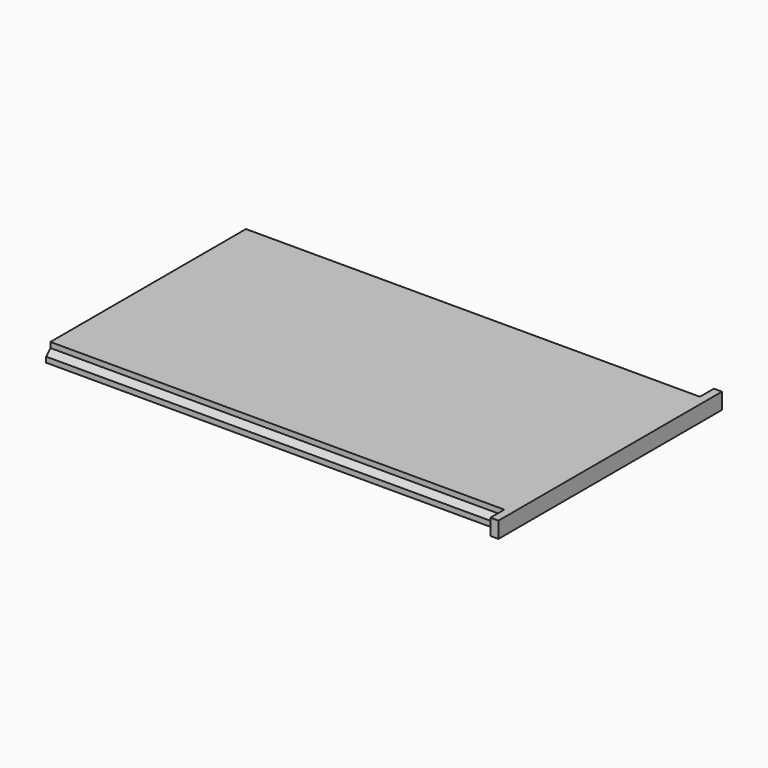
from build123d import *

# Parameters (mm, degrees)
PAD003003002_DEPTH = 42.25
SKETCH009_W        = 52
SKETCH009_H        = 3
PAD003003003_DEPTH = 1.5
SKETCH010_W        = 43.5
SKETCH010_H        = 78.5
POCKET002_DEPTH    = 2


with BuildPart() as part:
    # Sketch008 → Pad003003002 (new body, symmetric)
    with BuildSketch(Plane.YZ):
        Polygon((22.75, 28), (-22.75, 28), (-22.75, 27), (-23.75, 26), (-23.75, 25), (23.75, 25), (23.75, 26), (22.75, 27), align=None)
    extrude(amount=PAD003003002_DEPTH, both=True)

    # Sketch009 → Pad003003003 (new body)
    with BuildSketch(Plane.YZ.offset(42.25)):
        with Locations((0, 26.5)):
            Rectangle(SKETCH009_W, SKETCH009_H)
    extrude(amount=PAD003003003_DEPTH)

    # Sketch010 → Pocket002 (cut)
    with BuildSketch(Plane.YX.offset(-25)):
        with Locations((0, 3)):
            Rectangle(SKETCH010_W, SKETCH010_H)
    extrude(amount=-POCKET002_DEPTH, mode=Mode.SUBTRACT)


solid = part.part
